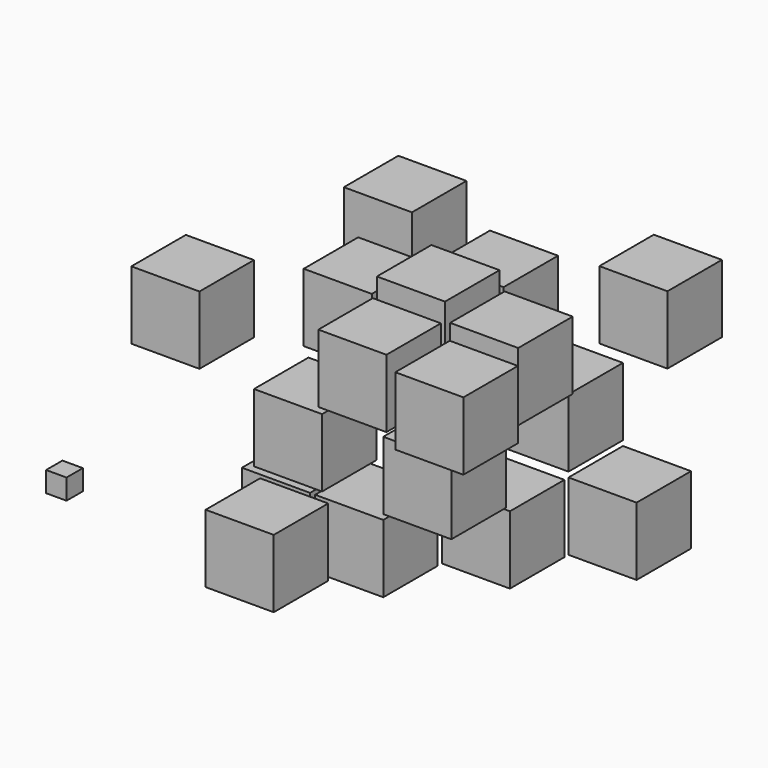
from build123d import *

# Parameters (mm, degrees)
F0_W      = 20
F0_H      = 20
F1_DEPTH  = 20
F3_W      = 20
F3_H      = 20
F4_DEPTH  = 20
F6_W      = 20
F6_H      = 20
F7_DEPTH  = 20
F8_DEPTH  = 25
F9_DEPTH  = 20
F10_DEPTH = 30
F11_W     = 6
F11_H     = 6
F12_DEPTH = 6
F13_W     = 20
F13_H     = 20
F14_DEPTH = 20


with BuildPart() as f1:
    # F0 (on Top) → F1 (new body)
    with BuildSketch(Plane.XY):
        with Locations((1, -36)):
            Rectangle(F0_W, F0_H)
    extrude(amount=-F1_DEPTH)


with BuildPart() as f1b:
    # F0 (on Top) → F1, piece 2 (new body)
    with BuildSketch(Plane.XY):
        with Locations((-5.5342707783, -14.5)):
            Rectangle(F0_W, F0_H)
    extrude(amount=-F1_DEPTH)


with BuildPart() as f1c:
    # F0 (on Top) → F1, piece 3 (new body)
    with BuildSketch(Plane.XY):
        with Locations((15.9657292217, -14.5)):
            Rectangle(F0_W, F0_H)
    extrude(amount=-F1_DEPTH)


with BuildPart() as f1d:
    # F0 (on Top) → F1, piece 4 (new body)
    with BuildSketch(Plane.XY):
        with Locations((35.9657292217, 7)):
            Rectangle(F0_W, F0_H)
    extrude(amount=-F1_DEPTH)


with BuildPart() as f1e:
    # F0 (on Top) → F1, piece 5 (new body)
    with BuildSketch(Plane.XY):
        with Locations((55.9657292217, 28.5)):
            Rectangle(F0_W, F0_H)
    extrude(amount=-F1_DEPTH)


with BuildPart() as f4:
    # F3 (on offset) → F4 (new body)
    with BuildSketch(Plane.XY.offset(1.5)):
        with Locations((-2, -14.5)):
            Rectangle(F3_W, F3_H)
    extrude(amount=F4_DEPTH)


with BuildPart() as f4b:
    # F3 (on offset) → F4, piece 2 (new body)
    with BuildSketch(Plane.XY.offset(1.5)):
        with Locations((35.9657292217, -14.5)):
            Rectangle(F3_W, F3_H)
    extrude(amount=F4_DEPTH)


with BuildPart() as f4c:
    # F3 (on offset) → F4, piece 3 (new body)
    with BuildSketch(Plane.XY.offset(1.5)):
        with Locations((35.9657292217, 28.5)):
            Rectangle(F3_W, F3_H)
    extrude(amount=F4_DEPTH)


with BuildPart() as f7:
    # F6 (on offset) → F7 (new body)
    with BuildSketch(Plane.XY.offset(23)):
        with Locations((43.9, -20)):
            Rectangle(F6_W, F6_H)
    extrude(amount=F7_DEPTH)


with BuildPart() as f7b:
    # F6 (on offset) → F7, piece 2 (new body)
    with BuildSketch(Plane.XY.offset(23)):
        with Locations((16.9, -14.5)):
            Rectangle(F6_W, F6_H)
    extrude(amount=F7_DEPTH)


with BuildPart() as f7c:
    # F6 (on offset) → F7, piece 3 (new body)
    with BuildSketch(Plane.XY.offset(23)):
        with Locations((-4.6, 7)):
            Rectangle(F6_W, F6_H)
    extrude(amount=F7_DEPTH)


with BuildPart() as f7d:
    # F6 (on offset) → F7, piece 4 (new body)
    with BuildSketch(Plane.XY.offset(23)):
        with Locations((16.9, 28.5)):
            Rectangle(F6_W, F6_H)
    extrude(amount=F7_DEPTH)


with BuildPart() as f7e:
    # F6 (on offset) → F7, piece 5 (new body)
    with BuildSketch(Plane.XY.offset(23)):
        with Locations((47.5208498538, 50.3779649734)):
            Rectangle(F6_W, F6_H)
    extrude(amount=F7_DEPTH)


with BuildPart() as f8:
    # F6 (on offset) → F8 (new body)
    with BuildSketch(Plane.XY.offset(23)):
        with Locations((16.9, 7)):
            Rectangle(F6_W, F6_H)
    extrude(amount=F8_DEPTH)


with BuildPart() as f9:
    # F6 (on offset) → F9 (new body)
    with BuildSketch(Plane.XY.offset(23)):
        with Locations((38.4, 7)):
            Rectangle(F6_W, F6_H)
    extrude(amount=F9_DEPTH)


with BuildPart() as f10:
    # F6 (on offset) → F10 (new body)
    with BuildSketch(Plane.XY.offset(23)):
        with Locations((-10.7139368774, 29.3868053705)):
            Rectangle(F6_W, F6_H)
    extrude(amount=F10_DEPTH)


with BuildPart() as f12:
    # F11 (on face) → F12 (new body)
    with BuildSketch(Plane.XY):
        with Locations((-39.7010849917, -59.4384841919)):
            Rectangle(F11_W, F11_H)
    extrude(amount=F12_DEPTH)


with BuildPart() as f14:
    # F13 (on face) → F14 (new body)
    with BuildSketch(Plane.XY.offset(21.5)):
        with Locations((-38.0093035775, -14.5)):
            Rectangle(F13_W, F13_H)
    extrude(amount=F14_DEPTH)


solid = Compound([f1.part, f1b.part, f1c.part, f1d.part, f1e.part, f4.part, f4b.part, f4c.part, f7.part, f7b.part, f7c.part, f7d.part, f7e.part, f8.part, f9.part, f10.part, f12.part, f14.part])
